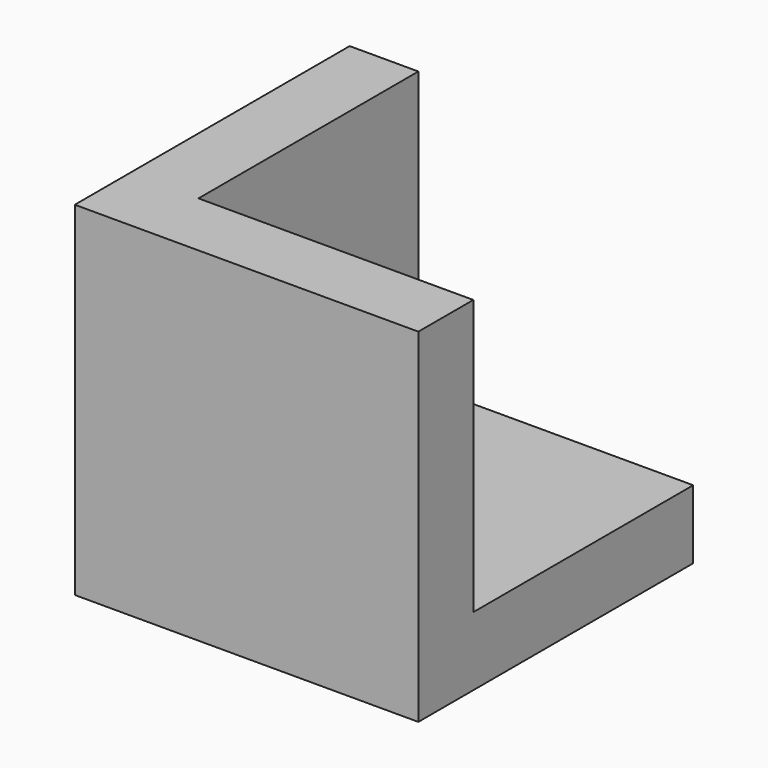
from build123d import *

# Parameters (mm, degrees)
BOX001_W     = 10
BOX001_H     = 10
BOX001_DEPTH = 10
BOX_W        = 10
BOX_H        = 10
BOX_DEPTH    = 10


with BuildPart() as obj1:
    # Box001 → Box001 (new body)
    with BuildSketch(Plane(origin=(2, 2, 2), x_dir=(1, 0, 0), z_dir=(0, 0, 1))):
        with Locations((5, 5)):
            Rectangle(BOX001_W, BOX001_H)
    extrude(amount=BOX001_DEPTH)


with BuildPart() as obj2:
    # Box → Box (new body)
    with BuildSketch(Plane.XY):
        with Locations((5, 5)):
            Rectangle(BOX_W, BOX_H)
    extrude(amount=BOX_DEPTH)

    # Cut: cut obj1
    add(obj1.part, mode=Mode.SUBTRACT)


solid = obj2.part
